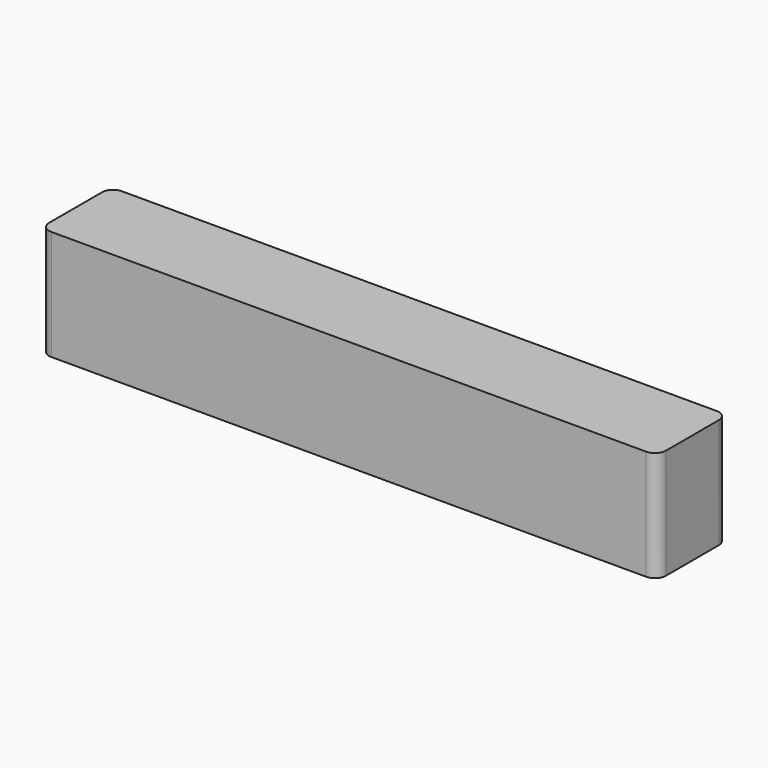
from build123d import *

# Parameters (mm, degrees)
PAD001_DEPTH = 50


with BuildPart() as part:
    # Sketch → Pad001 (new body)
    with BuildSketch(Plane.XY):
        with BuildLine():
            Line((0, 0), (270, 0))
            ThreePointArc((270, 0), (273.535534, 1.464466), (275, 5))
            Line((275, 5), (275, 35))
            ThreePointArc((275, 35), (273.535534, 38.535534), (270, 40))
            Line((270, 40), (0, 40))
            ThreePointArc((0, 40), (-3.535534, 38.535534), (-5, 35))
            Line((-5, 35), (-5, 5))
            ThreePointArc((-5, 5), (-3.535534, 1.464466), (0, 0))
        make_face()
    extrude(amount=PAD001_DEPTH)


solid = part.part
